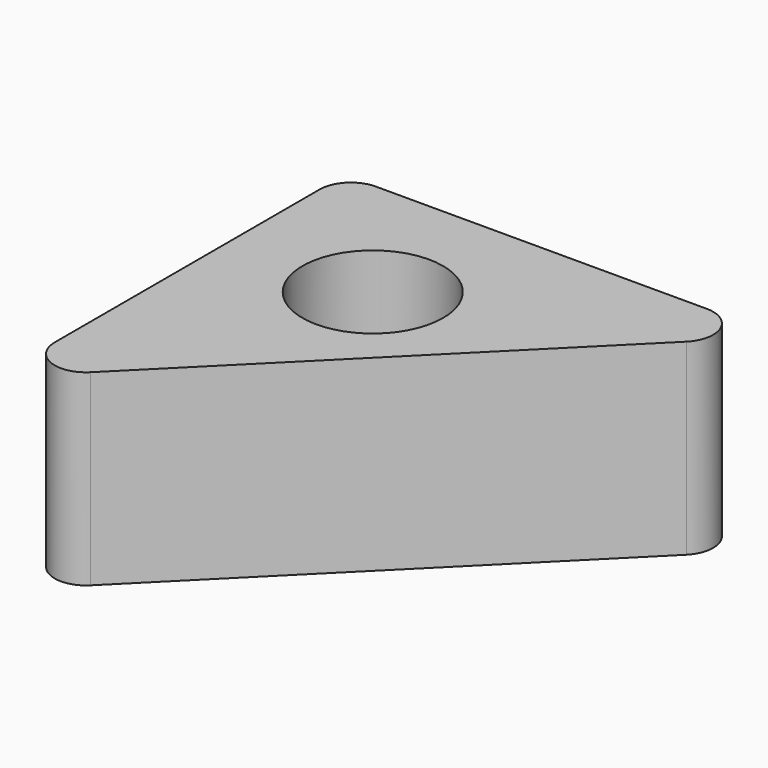
from build123d import *

# Parameters (mm, degrees)
SKETCH_R  = 4.5
PAD_DEPTH = 12


with BuildPart() as part:
    # Sketch → Pad (new body)
    with BuildSketch(Plane.XY):
        with BuildLine():
            Line((0, -2), (0, -23.171573))
            ThreePointArc((0, -23.171573), (1.234633, -25.019332), (3.414214, -24.585786))
            Line((3.414214, -24.585786), (24.585786, -3.414214))
            ThreePointArc((24.585786, -3.414214), (25.019332, -1.234633), (23.171573, 0))
            Line((23.171573, 0), (2, 0))
            ThreePointArc((2, 0), (0.585786, -0.585786), (0, -2))
        make_face()
        with Locations((9, -9)):
            Circle(SKETCH_R, mode=Mode.SUBTRACT)
    extrude(amount=PAD_DEPTH)


solid = part.part
